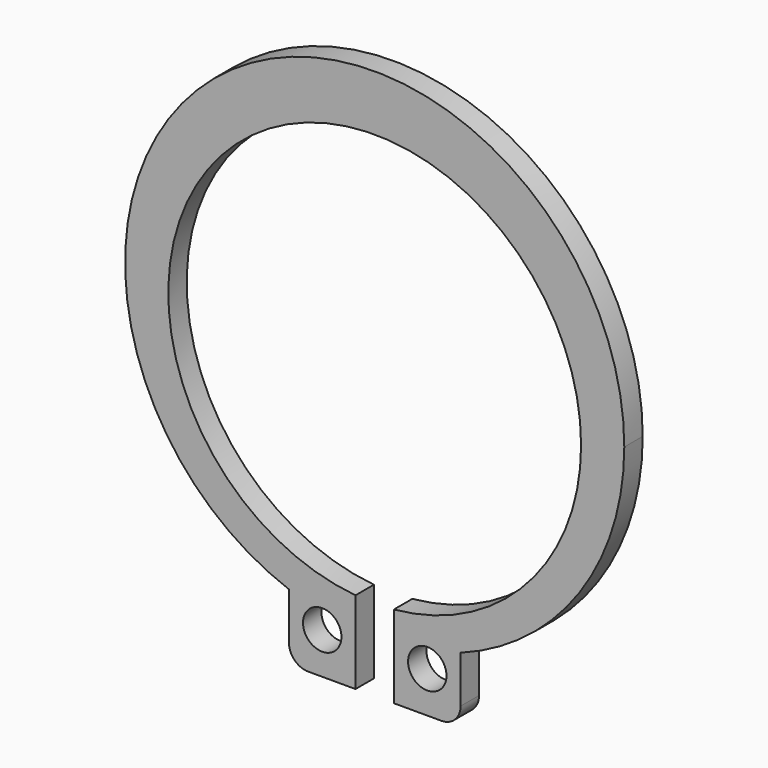
from build123d import *

# Parameters (mm, degrees)
F1_DEPTH = 1.2


with BuildPart() as f1:
    # F0 (on Front) → F1 (new body)
    with BuildSketch(Plane.XZ):
        with BuildLine():
            ThreePointArc((32.640662, -18.142885), (26.401446, 0.507593), (44.390662, -7.439497))
            ThreePointArc((44.390662, -7.439497), (41.587753, -14.678714), (34.640662, -18.142885))
            Line((34.640662, -18.142885), (38.117327, -18.142885))
            Line((38.117327, -18.142885), (38.117327, -18.994393))
            ThreePointArc((38.117327, -18.994393), (44.298913, -14.232728), (46.640662, -6.789497))
            ThreePointArc((46.640662, -6.789497), (26.192869, 3.865566), (29.174451, -18.998222))
            Line((29.174451, -18.998222), (29.174451, -18.142885))
            Line((29.174451, -18.142885), (32.640662, -18.142885))
        make_face()
        with BuildLine():
            Line((32.640662, -22.442885), (32.640662, -19.750979))
            ThreePointArc((32.640662, -19.750979), (32.151023, -19.703868), (31.663517, -19.638268))
            ThreePointArc((31.663517, -19.638268), (31.844562, -19.943572), (31.907556, -20.292885))
            ThreePointArc((31.907556, -20.292885), (30.379304, -21.141972), (30.465659, -19.395819))
            ThreePointArc((30.465659, -19.395819), (29.814886, -19.213806), (29.174451, -18.998222))
            Line((29.174451, -18.998222), (29.174451, -21.442885))
            ThreePointArc((29.174451, -21.442885), (29.467344, -22.149992), (30.174451, -22.442885))
            Line((30.174451, -22.442885), (32.640662, -22.442885))
        make_face()
        with BuildLine():
            Line((32.640662, -19.750979), (32.640662, -18.142885))
            Line((32.640662, -18.142885), (29.174451, -18.142885))
            Line((29.174451, -18.142885), (29.174451, -18.998222))
            ThreePointArc((29.174451, -18.998222), (29.814886, -19.213806), (30.465659, -19.395819))
            ThreePointArc((30.465659, -19.395819), (31.105935, -19.312759), (31.663517, -19.638268))
            ThreePointArc((31.663517, -19.638268), (32.151023, -19.703868), (32.640662, -19.750979))
        make_face()
        with BuildLine():
            Line((38.117327, -18.142885), (34.640662, -18.142885))
            Line((34.640662, -18.142885), (34.640662, -19.750979))
            ThreePointArc((34.640662, -19.750979), (35.133333, -19.703518), (35.62384, -19.637338))
            ThreePointArc((35.62384, -19.637338), (36.180251, -19.312833), (36.81912, -19.394949))
            ThreePointArc((36.81912, -19.394949), (37.47346, -19.211641), (38.117327, -18.994393))
            Line((38.117327, -18.994393), (38.117327, -18.142885))
        make_face()
        with BuildLine():
            ThreePointArc((35.62384, -19.637338), (35.133333, -19.703518), (34.640662, -19.750979))
            Line((34.640662, -19.750979), (34.640662, -22.442885))
            Line((34.640662, -22.442885), (37.117327, -22.442885))
            ThreePointArc((37.117327, -22.442885), (37.824434, -22.149992), (38.117327, -21.442885))
            Line((38.117327, -21.442885), (38.117327, -18.994393))
            ThreePointArc((38.117327, -18.994393), (37.47346, -19.211641), (36.81912, -19.394949))
            ThreePointArc((36.81912, -19.394949), (37.22756, -19.763794), (37.378994, -20.292885))
            ThreePointArc((37.378994, -20.292885), (36.029105, -21.229676), (35.62384, -19.637338))
        make_face()
    extrude(amount=F1_DEPTH)


solid = f1.part
